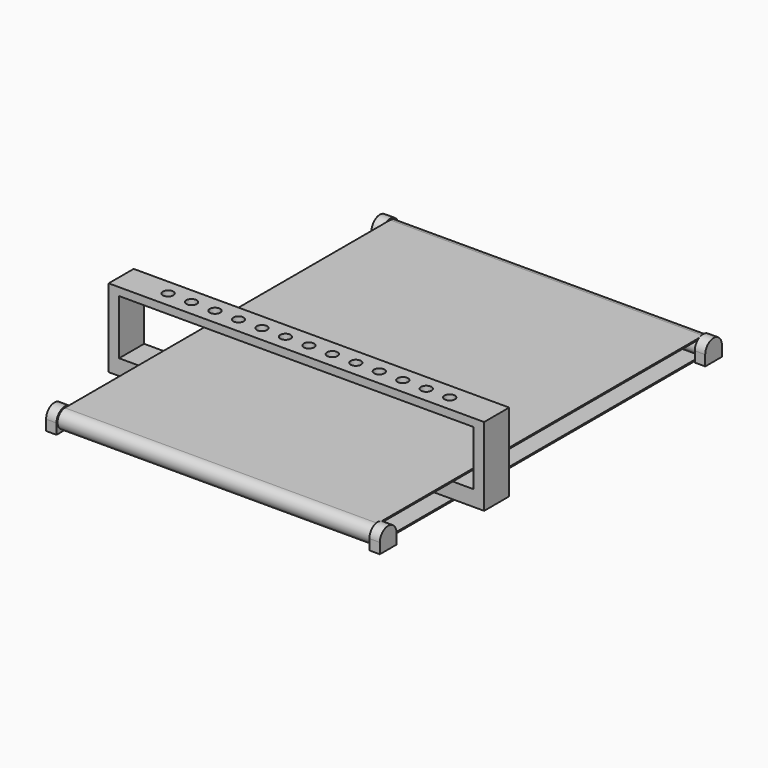
from build123d import *

# Parameters (mm, degrees)
F1_DEPTH  = 762
F2_R      = 38.1
F3_DEPTH  = 812.8
F4_R      = 38.1
F5_DEPTH  = 50.8
F9_W      = 1828.8
F9_H      = 381
F9_W_2    = 1727.2
F9_H_2    = 266.7
F10_DEPTH = 76.2
F11_R     = 25.4
F12_DEPTH = 38.1


with BuildPart() as f1:
    # F0 (on Right) → F1 (new body, symmetric)
    with BuildSketch(Plane.YZ):
        with BuildLine():
            ThreePointArc((990.6, -44.45), (1035.05, 0), (990.6, 44.45))
            Line((990.6, 44.45), (-990.6, 44.45))
            ThreePointArc((-990.6, 44.45), (-1035.05, 0), (-990.6, -44.45))
            Line((-990.6, -44.45), (990.6, -44.45))
        make_face()
        with BuildLine():
            Line((-990.6, 38.1), (990.6, 38.1))
            ThreePointArc((990.6, 38.1), (1028.7, 0), (990.6, -38.1))
            Line((990.6, -38.1), (-990.6, -38.1))
            ThreePointArc((-990.6, -38.1), (-1028.7, 0), (-990.6, 38.1))
        make_face(mode=Mode.SUBTRACT)
    extrude(amount=F1_DEPTH, both=True)

    # F2 (on Right) → F3 (join, symmetric)
    with BuildSketch(Plane.YZ):
        with Locations((-990.6, 0)):
            Circle(F2_R)
        with Locations((990.6, 0)):
            Circle(F2_R)
    extrude(amount=F3_DEPTH, both=True)

    # F4 (on face) → F5 (join, through all)
    with BuildSketch(Plane.YZ.offset(762)):
        with BuildLine():
            Line((-939.8, -50.8), (-939.8, 0))
            ThreePointArc((-939.8, 0), (-990.6, 50.8), (-1041.4, 0))
            Line((-1041.4, 0), (-1041.4, -50.8))
            Line((-1041.4, -50.8), (-939.8, -50.8))
        make_face()
        with Locations((-990.6, 0)):
            Circle(F4_R, mode=Mode.SUBTRACT)
    extrude(amount=F5_DEPTH)

    # F6: F1 across plane


with BuildPart() as f1_1:
    add(f1.part)
    add(f1.part.mirror(Plane.YZ))

    # F7: F1 across plane


with BuildPart() as f1_2:
    add(f1_1.part)
    add(f1_1.part.mirror(Plane.XZ))


with BuildPart() as f10:
    # F9 (on offset) → F10 (new body, symmetric)
    with BuildSketch(Plane.XZ.offset(457.2)):
        with Locations((0, 152.4)):
            Rectangle(F9_W, F9_H)
        with Locations((0, 171.45)):
            Rectangle(F9_W_2, F9_H_2, mode=Mode.SUBTRACT)
    extrude(amount=F10_DEPTH, both=True)

    # F11 (on face) → F12 (cut, through all)
    with BuildSketch(Plane.XY.offset(342.9)):
        with Locations((-457.2, -457.2)):
            Circle(F11_R)
        with Locations((0, -457.2)):
            Circle(F11_R)
        with Locations((-342.9, -457.2)):
            Circle(F11_R)
        with Locations((-114.3, -457.2)):
            Circle(F11_R)
        with Locations((-228.6, -457.2)):
            Circle(F11_R)
        with Locations((-571.5, -457.2)):
            Circle(F11_R)
        with Locations((-685.8, -457.2)):
            Circle(F11_R)
        with Locations((114.3, -457.2)):
            Circle(F11_R)
        with Locations((228.6, -457.2)):
            Circle(F11_R)
        with Locations((342.9, -457.2)):
            Circle(F11_R)
        with Locations((457.2, -457.2)):
            Circle(F11_R)
        with Locations((571.5, -457.2)):
            Circle(F11_R)
        with Locations((685.8, -457.2)):
            Circle(F11_R)
    extrude(amount=-F12_DEPTH, mode=Mode.SUBTRACT)


solid = Compound([f1_2.part, f10.part])
